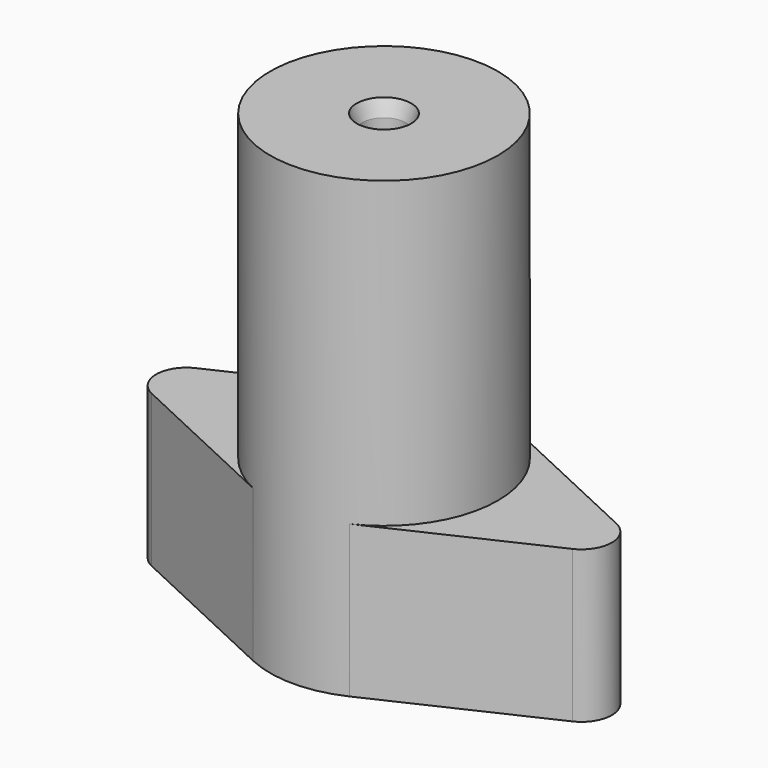
from build123d import *

# Parameters (mm, degrees)
F0_R     = 7.5
F0_R_2   = 1.435
F1_DEPTH = 30
F2_SIZE2 = 0.36397
F2_SIZE  = 1
F4_DEPTH = 10


with BuildPart() as f1:
    # F0 (on Top) → F1 (new body)
    with BuildSketch(Plane.XY):
        Circle(F0_R)
        Circle(F0_R_2, mode=Mode.SUBTRACT)
    extrude(amount=F1_DEPTH)

    # F2
    f2_edges = [f1.edges().sort_by_distance(p)[0] for p in [
        (-1.435, 0, 30),
    ]]
    chamfer(f2_edges, length=F2_SIZE, length2=F2_SIZE2)

    # F3 (on Top) → F4 (join)
    with BuildSketch(Plane.XY):
        with BuildLine():
            ThreePointArc((-3.173077, -6.795703), (-7.5, 0), (-3.173077, 6.795703))
            Line((-3.173077, 6.795703), (-13.846154, 1.812188))
            ThreePointArc((-13.846154, 1.812188), (-15, 0), (-13.846154, -1.812188))
            Line((-13.846154, -1.812188), (-3.173077, -6.795703))
        make_face()
        with BuildLine():
            ThreePointArc((13.846154, -1.812188), (15, 0), (13.846154, 1.812188))
            Line((13.846154, 1.812188), (3.173077, 6.795703))
            ThreePointArc((3.173077, 6.795703), (7.5, 0), (3.173077, -6.795703))
            Line((3.173077, -6.795703), (13.846154, -1.812188))
        make_face()
    extrude(amount=F4_DEPTH)


solid = f1.part
